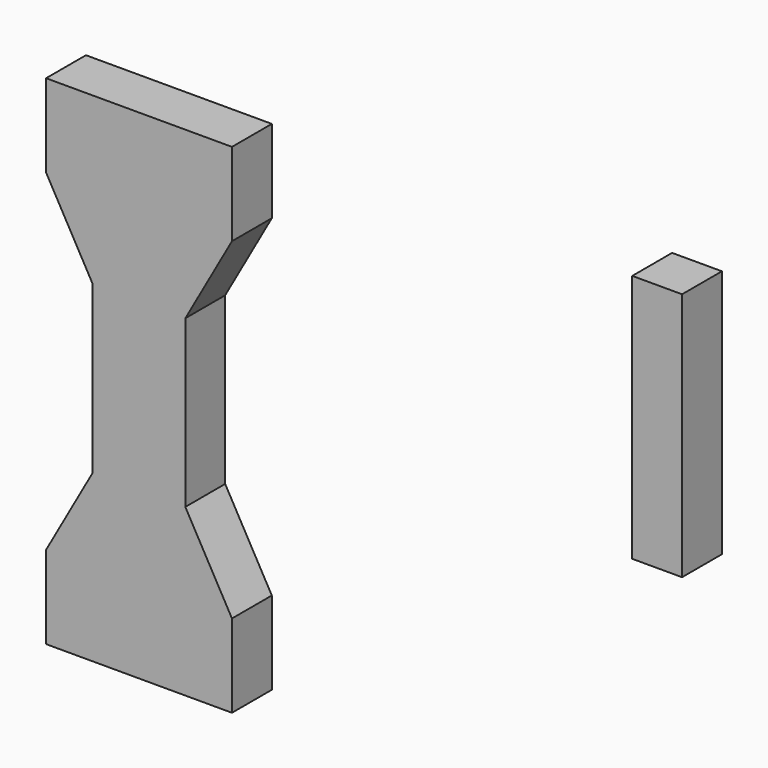
from build123d import *

# Parameters (mm, degrees)
F0_W     = 3
F0_H     = 3
F1_DEPTH = 15
F3_DEPTH = 3


with BuildPart() as f1:
    # F0 (on Top) → F1 (new body)
    with BuildSketch(Plane.XY):
        Rectangle(F0_W, F0_H)
    extrude(amount=F1_DEPTH)


with BuildPart() as f3:
    # F2 (on Front) → F3 (new body)
    with BuildSketch(Plane.XZ):
        Polygon((-35.596542, -15), (-24.403458, -15), (-24.403458, -10), (-27.211914, -5), (-27.211914, 5), (-24.403458, 10), (-24.403458, 15), (-35.596542, 15), (-35.596542, 10), (-32.788086, 5), (-32.788086, -5), (-35.596542, -10), align=None)
    extrude(amount=F3_DEPTH)


solid = Compound([f1.part, f3.part])
